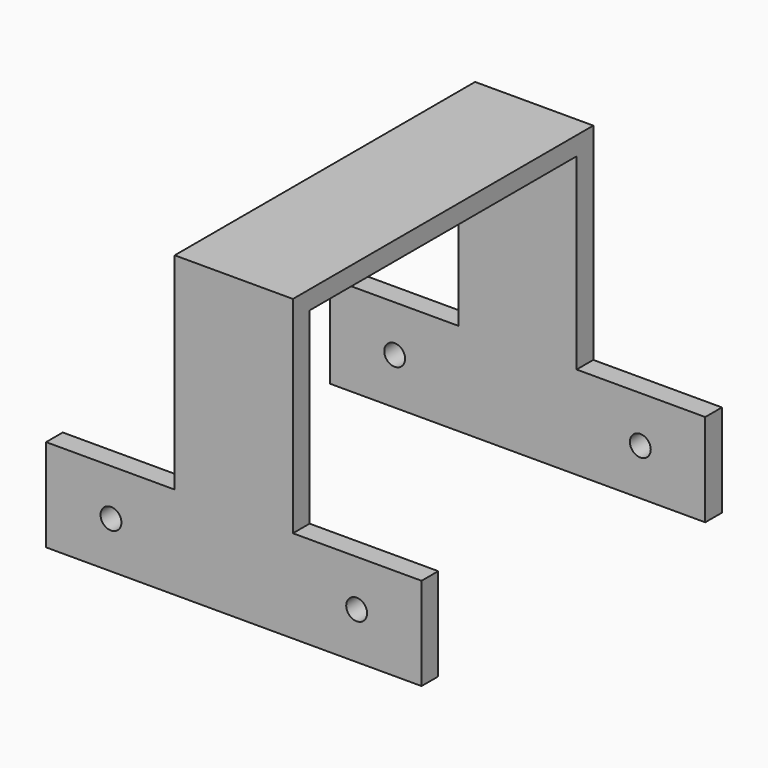
from build123d import *

# Parameters (mm, degrees)
F0_W      = 12.75
F0_H      = 40.5
F2_DEPTH  = 2
F3_START  = 18
F1_W      = 12.75
F1_H      = 20.25
F3_DEPTH  = 2.25
F4_START  = -18
F4_DEPTH  = 2.25
F6_DEPTH  = 2.25
F8_DEPTH  = 2.25
F9_R      = 1.125
F10_DEPTH = 40.501


with BuildPart() as f2:
    # F0 (on Top) → F2 (new body)
    with BuildSketch(Plane.XY):
        Rectangle(F0_W, F0_H)
    extrude(amount=F2_DEPTH)

    # F1 (on Front) → F3 (join)
    with BuildSketch(Plane.XZ.offset(F3_START)):
        with Locations((0, -10.125)):
            Rectangle(F1_W, F1_H)
    extrude(amount=F3_DEPTH)

    # F1 (on Front) → F4 (join)
    with BuildSketch(Plane.XZ.offset(F4_START)):
        with Locations((0, -10.125)):
            Rectangle(F1_W, F1_H)
    extrude(amount=-F4_DEPTH)

    # F5 (on face) → F6 (join, through all)
    with BuildSketch(Plane(origin=(0, 20.25, 0), x_dir=(-1, 0, 0), z_dir=(0, 1, 0))):
        Polygon((-6.375, -20.25), (-20.25, -20.25), (-20.25, -30.25), (20.25, -30.25), (20.25, -20.25), (6.375, -20.25), align=None)
    extrude(amount=-F6_DEPTH)

    # F7 (on face) → F8 (join, through all)
    with BuildSketch(Plane.XZ.offset(20.25)):
        Polygon((0, -20.25), (-20.25, -20.25), (-20.25, -30.25), (20.25, -30.25), (20.25, -20.25), align=None)
    extrude(amount=-F8_DEPTH)

    # F9 (on face) → F10 (cut, through all)
    with BuildSketch(Plane.XZ.offset(20.25)):
        with Locations((-13.25, -25.25)):
            Circle(F9_R)
        with Locations((13.25, -25.25)):
            Circle(F9_R)
    extrude(amount=-F10_DEPTH, mode=Mode.SUBTRACT)


solid = f2.part
